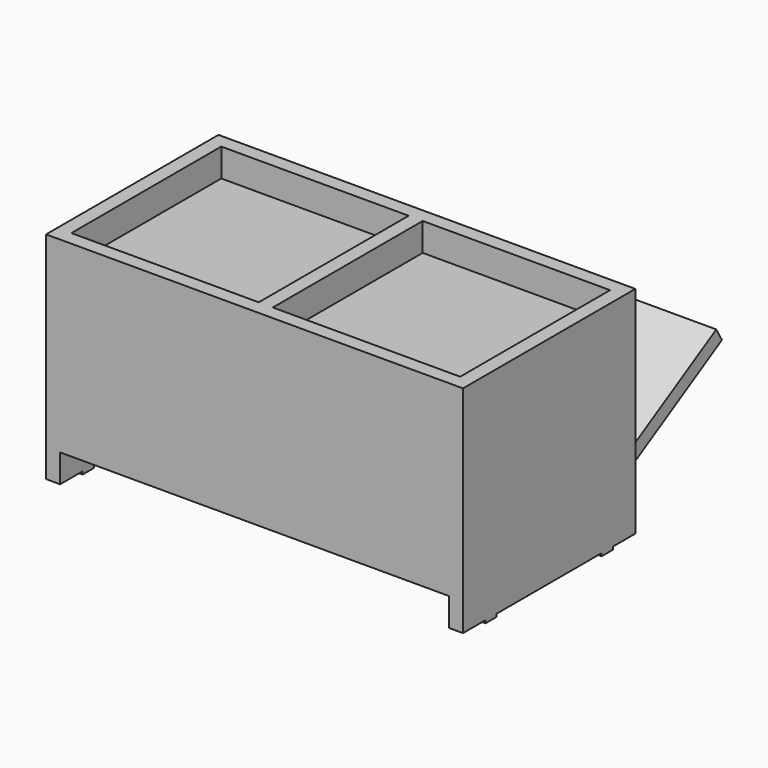
from build123d import *

# Parameters (mm, degrees)
BOX001_W               = 215
BOX001_H               = 415
BOX001_DEPTH           = 15
BOX002_W               = 230
BOX002_H               = 15
BOX002_DEPTH           = 230
BOX003_W               = 200
BOX003_H               = 15
BOX003_DEPTH           = 30
BOX005_W               = 15
BOX005_H               = 415
BOX005_DEPTH           = 30
BOX006_W               = 15
BOX006_H               = 415
BOX006_DEPTH           = 185
BOX007_W               = 230
BOX007_H               = 415
BOX007_DEPTH           = 15
BOX008_W               = 15
BOX008_H               = 415
BOX008_DEPTH           = 155
BOX008_PITCH_ANGLE     = 60
BOX010_W               = 15
BOX010_H               = 45
BOX010_DEPTH           = 15
BOX011_W               = 2
BOX011_H               = 44
BOX011_DEPTH           = 10
BOX011_PITCH_ANGLE     = 60
BOX012_W               = 15
BOX012_H               = 15
BOX012_DEPTH           = 3
BOX013_W               = 15
BOX013_H               = 15
BOX013_DEPTH           = 3
BOX014_W               = 15
BOX014_H               = 15
BOX014_DEPTH           = 3
BOX015_W               = 15
BOX015_H               = 15
BOX015_DEPTH           = 3
BOX_W                  = 230
BOX_H                  = 15
BOX_DEPTH              = 230
FUSION_PLACEMENT_ANGLE = 90


with BuildPart() as tamposuperiorhorizontal:
    # Box001 → Box001 (new body)
    with BuildSketch(Plane(origin=(15, 15, 185), x_dir=(1, 0, 0), z_dir=(0, 0, 1))):
        with Locations((107.5, 207.5)):
            Rectangle(BOX001_W, BOX001_H)
    extrude(amount=BOX001_DEPTH)


with BuildPart() as obj1:
    # Box002 → Box002 (new body)
    with BuildSketch(Plane(origin=(0, 430, 0), x_dir=(1, 0, 0), z_dir=(0, 0, 1))):
        with Locations((115, 7.5)):
            Rectangle(BOX002_W, BOX002_H)
    extrude(amount=BOX002_DEPTH)


with BuildPart() as obj2:
    # Box003 → Box003 (new body)
    with BuildSketch(Plane(origin=(15, 215, 200), x_dir=(1, 0, 0), z_dir=(0, 0, 1))):
        with Locations((100, 7.5)):
            Rectangle(BOX003_W, BOX003_H)
    extrude(amount=BOX003_DEPTH)


with BuildPart() as obj3:
    # Box005 → Box005 (new body)
    with BuildSketch(Plane(origin=(215, 15, 200), x_dir=(1, 0, 0), z_dir=(0, 0, 1))):
        with Locations((7.5, 207.5)):
            Rectangle(BOX005_W, BOX005_H)
    extrude(amount=BOX005_DEPTH)


with BuildPart() as obj4:
    # Box006 → Box006 (new body)
    with BuildSketch(Plane(origin=(0, 15, 45), x_dir=(1, 0, 0), z_dir=(0, 0, 1))):
        with Locations((7.5, 207.5)):
            Rectangle(BOX006_W, BOX006_H)
    extrude(amount=BOX006_DEPTH)


with BuildPart() as tampoinferiorhorizontal:
    # Box007 → Box007 (new body)
    with BuildSketch(Plane(origin=(0, 15, 30), x_dir=(1, 0, 0), z_dir=(0, 0, 1))):
        with Locations((115, 207.5)):
            Rectangle(BOX007_W, BOX007_H)
    extrude(amount=BOX007_DEPTH)


with BuildPart() as tampabasculante:
    # Box008 → Box008 (new body)
    with BuildSketch(Plane.XY):
        with Locations((7.5, 207.5)):
            Rectangle(BOX008_W, BOX008_H)
    extrude(amount=BOX008_DEPTH)


with BuildPart() as tampabasculante_1:
    # Box008 pitch: moved
    add(tampabasculante.part.rotate(Axis((0, 0, 0), (0, 1, 0)), BOX008_PITCH_ANGLE))


with BuildPart() as tampabasculante_2:
    # Box008 placement: moved
    add(tampabasculante_1.part.moved(Location((222.5, 15, 58))))


with BuildPart() as obj5:
    # Box010 → Box010 (new body)
    with BuildSketch(Plane(origin=(200, 199.5, 170), x_dir=(1, 0, 0), z_dir=(0, 0, 1))):
        with Locations((7.5, 22.5)):
            Rectangle(BOX010_W, BOX010_H)
    extrude(amount=BOX010_DEPTH)


with BuildPart() as obj6:
    # Box011 → Box011 (new body)
    with BuildSketch(Plane.XY):
        with Locations((1, 22)):
            Rectangle(BOX011_W, BOX011_H)
    extrude(amount=BOX011_DEPTH)


with BuildPart() as obj6_1:
    # Box011 pitch: moved
    add(obj6.part.rotate(Axis((0, 0, 0), (0, 1, 0)), BOX011_PITCH_ANGLE))


with BuildPart() as obj6_2:
    # Box011 placement: moved
    add(obj6_1.part.moved(Location((347, 199.5, 132))))


with BuildPart() as puxador:
    # Sphere → Sphere (revolve)
    with BuildSketch(Plane(origin=(354, 222, 105), x_dir=(1, 0, 0), z_dir=(0, -1, 0))):
        with BuildLine():
            ThreePointArc((0, -10), (10, 0), (0, 10))
            Line((0, 10), (0, -10))
        make_face()
    revolve(axis=Axis((354, 222, 105), (0, 0, 1)))


with BuildPart() as cube:
    # Box012 → Box012 (new body)
    with BuildSketch(Plane(origin=(30, 0, -3), x_dir=(1, 0, 0), z_dir=(0, 0, 1))):
        with Locations((7.5, 7.5)):
            Rectangle(BOX012_W, BOX012_H)
    extrude(amount=BOX012_DEPTH)


with BuildPart() as cube001:
    # Box013 → Box013 (new body)
    with BuildSketch(Plane(origin=(185, 0, -3), x_dir=(1, 0, 0), z_dir=(0, 0, 1))):
        with Locations((7.5, 7.5)):
            Rectangle(BOX013_W, BOX013_H)
    extrude(amount=BOX013_DEPTH)


with BuildPart() as cube002:
    # Box014 → Box014 (new body)
    with BuildSketch(Plane(origin=(30, 430, -3), x_dir=(1, 0, 0), z_dir=(0, 0, 1))):
        with Locations((7.5, 7.5)):
            Rectangle(BOX014_W, BOX014_H)
    extrude(amount=BOX014_DEPTH)


with BuildPart() as cube003:
    # Box015 → Box015 (new body)
    with BuildSketch(Plane(origin=(185, 430, -3), x_dir=(1, 0, 0), z_dir=(0, 0, 1))):
        with Locations((7.5, 7.5)):
            Rectangle(BOX015_W, BOX015_H)
    extrude(amount=BOX015_DEPTH)


with BuildPart() as fusion:
    # Box → Box (new body)
    with BuildSketch(Plane.XY):
        with Locations((115, 7.5)):
            Rectangle(BOX_W, BOX_H)
    extrude(amount=BOX_DEPTH)

    # Fusion: union TampoSuperiorHorizontal, obj1, obj2, obj3, obj4, TampoInferiorHorizontal, TampaBasculante, obj5, obj6, Puxador, Cube, Cube001, Cube002, Cube003
    add(tamposuperiorhorizontal.part)
    add(obj1.part)
    add(obj2.part)
    add(obj3.part)
    add(obj4.part)
    add(tampoinferiorhorizontal.part)
    add(tampabasculante_2.part)
    add(obj5.part)
    add(obj6_2.part)
    add(puxador.part)
    add(cube.part)
    add(cube001.part)
    add(cube002.part)
    add(cube003.part)


with BuildPart() as fusion_1:
    # Fusion placement: moved
    add(fusion.part.rotate(Axis((0, 0, 0), (0, 0, 1)), FUSION_PLACEMENT_ANGLE))


solid = fusion_1.part
